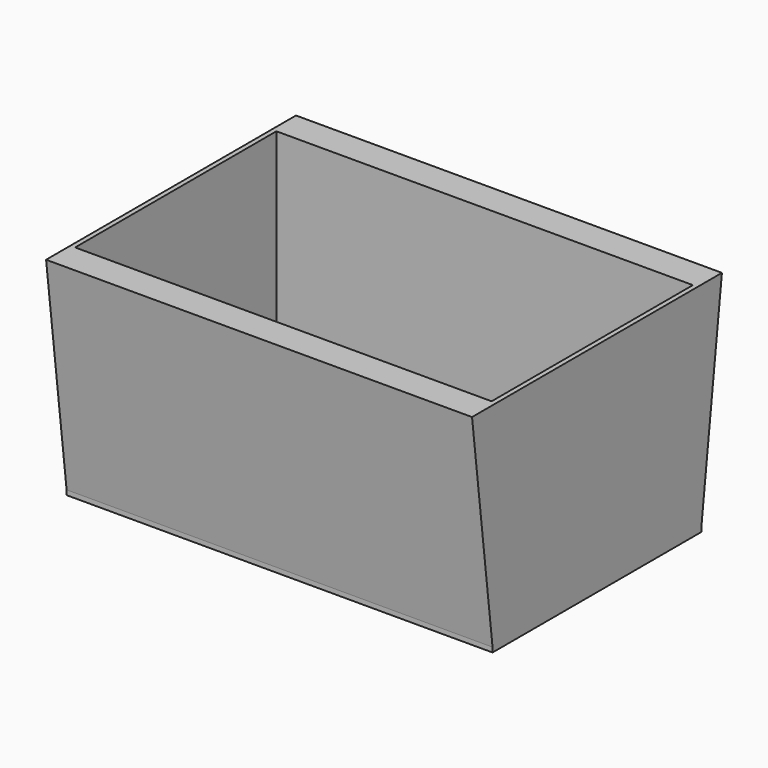
from build123d import *

# Parameters (mm, degrees)
F1_DEPTH = 2743.2
F2_W     = 2682.24
F2_H     = 1620.3168
F3_DEPTH = 1371.6
F4_W     = 2743.2
F4_H     = 1681.2768
F5_DEPTH = 30.48


with BuildPart() as f1:
    # F0 (on Right) → F1 (new body)
    with BuildSketch(Plane.YZ):
        Polygon((-840.6384, -1338.085146), (0, -1338.085146), (840.6384, -1338.085146), (1005.84, 33.514854), (0, 33.514854), (-1005.84, 33.514854), align=None)
    extrude(amount=F1_DEPTH)

    # F2 (on face) → F3 (cut, through all)
    with BuildSketch(Plane(origin=(0, 0, -1338.085146), x_dir=(1, 0, 0), z_dir=(0, 0, -1))):
        with Locations((1371.6, 0)):
            Rectangle(F2_W, F2_H)
    extrude(amount=-F3_DEPTH, mode=Mode.SUBTRACT)

    # F4 (on face) → F5 (join)
    with BuildSketch(Plane(origin=(0, 0, -1338.085146), x_dir=(1, 0, 0), z_dir=(0, 0, -1))):
        with Locations((1371.6, 0)):
            Rectangle(F4_W, F4_H)
    extrude(amount=F5_DEPTH)


solid = f1.part
